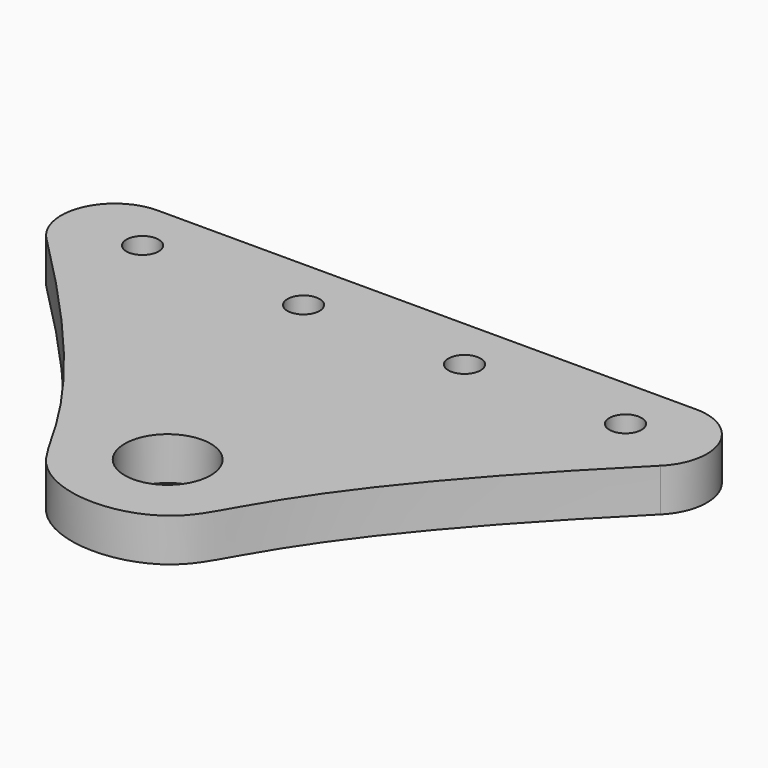
from build123d import *

# Parameters (mm, degrees)
SKETCH_R   = 1.5
SKETCH_R_2 = 4
PAD_DEPTH  = 4
FILLET_R   = 5


with BuildPart() as part:
    # Sketch → Pad (new body)
    with BuildSketch(Plane.XY):
        with BuildLine():
            Line((37.5, 30.193726), (-37.5, 30.193726))
            add(Edge.make_bspline(
                [(-37.5, 30.193726), (-9.441921, 4.091486), (-9.774633, -9.497281), (9.774633, -9.497281), (9.441921, 4.091486), (37.5, 30.193726)],
                knots=[0, 0, 0, 0, 0.333333, 0.666667, 1, 1, 1, 1], degree=3))
        make_face()
        with Locations((-22.5, 25.193726)):
            Circle(SKETCH_R, mode=Mode.SUBTRACT)
        with Locations((-7.5, 25.193726)):
            Circle(SKETCH_R, mode=Mode.SUBTRACT)
        with Locations((7.5, 25.193726)):
            Circle(SKETCH_R, mode=Mode.SUBTRACT)
        with Locations((22.5, 25.193726)):
            Circle(SKETCH_R, mode=Mode.SUBTRACT)
        Circle(SKETCH_R_2, mode=Mode.SUBTRACT)
    extrude(amount=PAD_DEPTH)

    # Fillet
    fillet_edges = [part.edges().sort_by_distance(p)[0] for p in [
        (37.5, 30.193726, 2),
        (-37.5, 30.193726, 2),
    ]]
    fillet(fillet_edges, radius=FILLET_R)


solid = part.part
